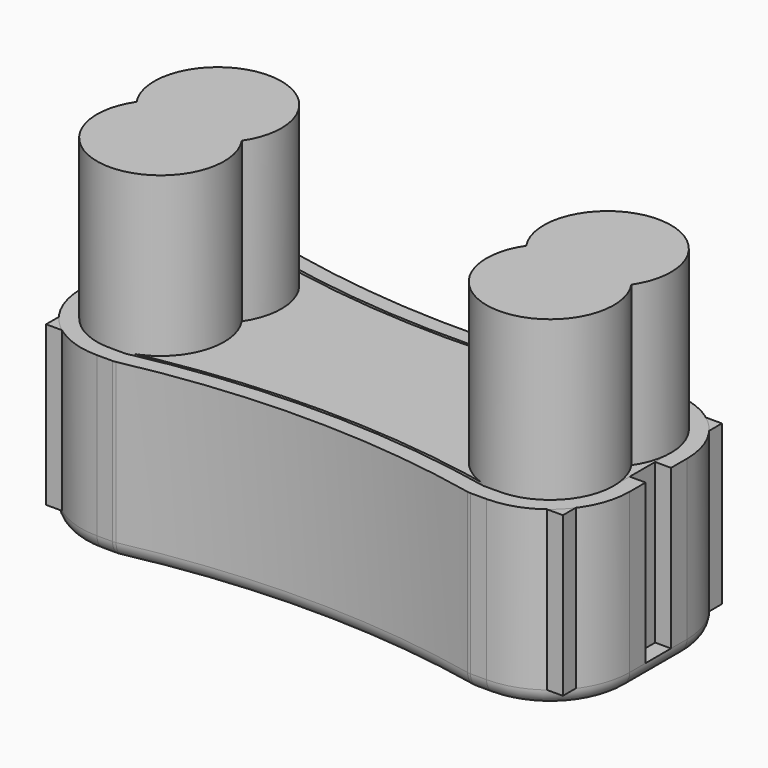
from build123d import *

# Parameters (mm, degrees)
CYLINDER001_R     = 8
CYLINDER001_DEPTH = 40
CYLINDER_R        = 8
CYLINDER_DEPTH    = 40
CYLINDER003_R     = 8
CYLINDER003_DEPTH = 40
CYLINDER002_R     = 8
CYLINDER002_DEPTH = 40
CYLINDER007_R     = 109.35
CYLINDER007_DEPTH = 40
CYLINDER006_R     = 109.35
CYLINDER006_DEPTH = 40
BOX001_W          = 65
BOX001_H          = 25
BOX001_DEPTH      = 20
BOX002_W          = 5
BOX002_H          = 4
BOX002_DEPTH      = 20
CYLINDER004_R     = 109
CYLINDER004_DEPTH = 40
CYLINDER005_R     = 109
CYLINDER005_DEPTH = 40
BOX_W             = 65
BOX_H             = 25
BOX_DEPTH         = 20
FILLET_R          = 8
THICKNESS_T       = 2
BOX003_W          = 20
BOX003_H          = 20
BOX003_DEPTH      = 10


with BuildPart() as obj1:
    # Cylinder001 → Cylinder001 (new body)
    with BuildSketch(Plane(origin=(8, 17, 0), x_dir=(1, 0, 0), z_dir=(0, 0, 1))):
        Circle(CYLINDER001_R)
    extrude(amount=CYLINDER001_DEPTH)


with BuildPart() as obj2:
    # Cylinder → Cylinder (new body)
    with BuildSketch(Plane(origin=(8, 8, 0), x_dir=(1, 0, 0), z_dir=(0, 0, 1))):
        Circle(CYLINDER_R)
    extrude(amount=CYLINDER_DEPTH)

    # Fusion: union obj1
    add(obj1.part)


with BuildPart() as obj3:
    # Cylinder003 → Cylinder003 (new body)
    with BuildSketch(Plane(origin=(57, 8, 0), x_dir=(1, 0, 0), z_dir=(0, 0, 1))):
        Circle(CYLINDER003_R)
    extrude(amount=CYLINDER003_DEPTH)


with BuildPart() as obj4:
    # Cylinder002 → Cylinder002 (new body)
    with BuildSketch(Plane(origin=(57, 17, 0), x_dir=(1, 0, 0), z_dir=(0, 0, 1))):
        Circle(CYLINDER002_R)
    extrude(amount=CYLINDER002_DEPTH)

    # Fusion001: union obj3
    add(obj3.part)


with BuildPart() as obj5:
    # Cylinder007 → Cylinder007 (new body)
    with BuildSketch(Plane(origin=(32.47, -106.65, 0), x_dir=(1, 0, 0), z_dir=(0, 0, 1))):
        Circle(CYLINDER007_R)
    extrude(amount=CYLINDER007_DEPTH)


with BuildPart() as cilindro_alto_grande001:
    # Cylinder006 → Cylinder006 (new body)
    with BuildSketch(Plane(origin=(32.47, 131.65, 0), x_dir=(1, 0, 0), z_dir=(0, 0, 1))):
        Circle(CYLINDER006_R)
    extrude(amount=CYLINDER006_DEPTH)


with BuildPart() as obj6:
    # Box001 → Box001 (new body)
    with BuildSketch(Plane.XY):
        with Locations((32.5, 12.5)):
            Rectangle(BOX001_W, BOX001_H)
    extrude(amount=BOX001_DEPTH)

    # Cut002: cut Cilindro_Alto_grande001
    add(cilindro_alto_grande001.part, mode=Mode.SUBTRACT)

    # Cut003: cut obj5
    add(obj5.part, mode=Mode.SUBTRACT)


with BuildPart() as ranura:
    # Box002 → Box002 (new body)
    with BuildSketch(Plane(origin=(65, 10.5, 0), x_dir=(1, 0, 0), z_dir=(0, 0, 1))):
        with Locations((2.5, 2)):
            Rectangle(BOX002_W, BOX002_H)
    extrude(amount=BOX002_DEPTH)


with BuildPart() as obj7:
    # Cylinder004 → Cylinder004 (new body)
    with BuildSketch(Plane(origin=(32.47, -106.65, 0), x_dir=(1, 0, 0), z_dir=(0, 0, 1))):
        Circle(CYLINDER004_R)
    extrude(amount=CYLINDER004_DEPTH)


with BuildPart() as cilindro_alto_grande:
    # Cylinder005 → Cylinder005 (new body)
    with BuildSketch(Plane(origin=(32.47, 131.65, 0), x_dir=(1, 0, 0), z_dir=(0, 0, 1))):
        Circle(CYLINDER005_R)
    extrude(amount=CYLINDER005_DEPTH)


with BuildPart() as final:
    # Box → Box (new body)
    with BuildSketch(Plane.XY):
        with Locations((32.5, 12.5)):
            Rectangle(BOX_W, BOX_H)
    extrude(amount=BOX_DEPTH)

    # Cut: cut Cilindro_Alto_grande
    add(cilindro_alto_grande.part, mode=Mode.SUBTRACT)

    # Cut001: cut obj7
    add(obj7.part, mode=Mode.SUBTRACT)

    # Fillet
    fillet_edges = [final.edges().sort_by_distance(p)[0] for p in [
        (0, 0, 10),
        (0, 25, 10),
        (65, 25, 10),
        (65, 0, 10),
    ]]
    fillet(fillet_edges, radius=FILLET_R)

    # Thickness
    thickness_openings = [final.faces().sort_by_distance(p)[0] for p in [
        (32.502969, 12.5, 20),
    ]]
    offset(amount=THICKNESS_T, openings=thickness_openings)

    # Cut004: cut ranura
    add(ranura.part, mode=Mode.SUBTRACT)


with BuildPart() as obj8:
    # Box003 → Box003 (new body)
    with BuildSketch(Plane(origin=(22, 2.5, 0), x_dir=(1, 0, 0), z_dir=(0, 0, 1))):
        with Locations((10, 10)):
            Rectangle(BOX003_W, BOX003_H)
    extrude(amount=BOX003_DEPTH)


solid = Compound([obj2.part, obj4.part, obj6.part, final.part, obj8.part])
